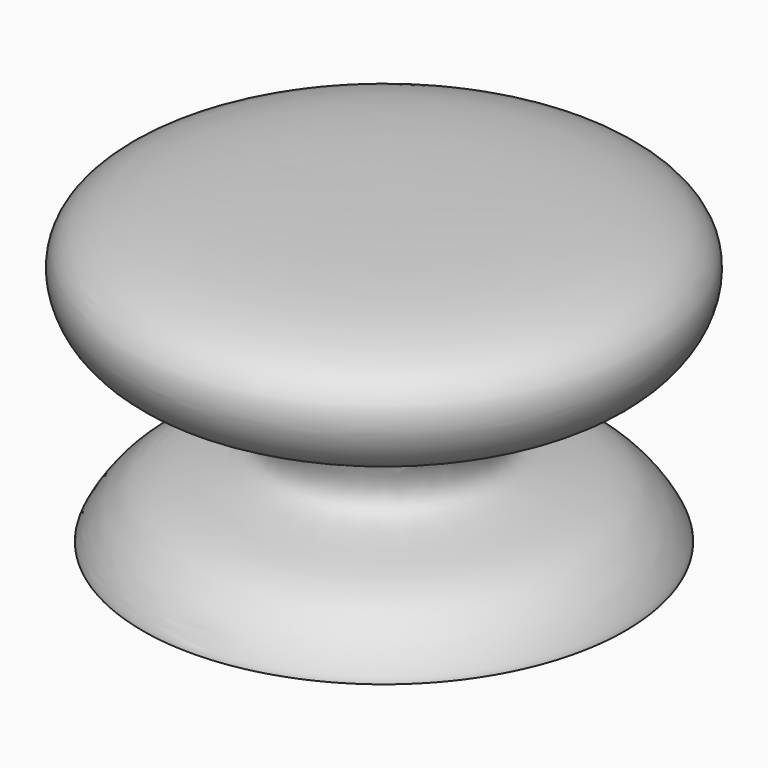
from build123d import *


with BuildPart() as f1:
    # F0 (on Front) → F1 (revolve)
    with BuildSketch(Plane.XZ):
        with BuildLine():
            add(Edge.make_bspline(
                [(0, 0), (-14.1659984246, 0.1822414202), (-27.1403732003, 0.3508967493), (-28.3792427368, -0.268284126), (-23.7231097601, 8.6177114417), (-8.3424125819, 6.9047736491), (-14.323462188, 20.4494978519), (-28.2552651789, 19.1849511984), (-34.0809964884, 34.5643497542), (-15.8121283877, 35.0412440784), (0, 35.052)],
                knots=[0, 0, 0, 0, 0.1953076067, 0.2134414859, 0.3164513818, 0.4442259353, 0.552797466, 0.6861562529, 0.7950432464, 1, 1, 1, 1], degree=3))
            Line((0, 0), (0, 35.052))
        make_face()
    revolve(axis=Axis((0, 0, 17.526), (0, 0, 1)))


solid = f1.part
